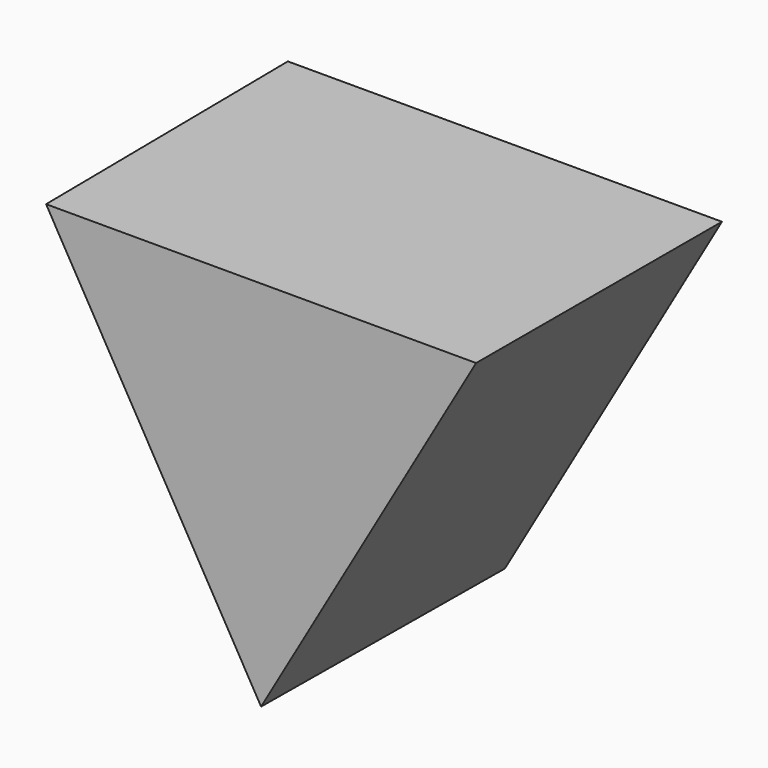
from build123d import *


with BuildPart() as f3:
    # F0 (on Front) → F3 section 0
    with BuildSketch(Plane.XZ):
        Polygon((53.416734, 30.840166), (-53.416734, 30.840166), (0, -61.680332), align=None)
    # F2 (on offset) → F3 section 1
    with BuildSketch(Plane.XZ.offset(75)):
        Polygon((52.919832, 30.553279), (-52.919832, 30.553279), (0, -61.106559), align=None)
    loft()


solid = f3.part
